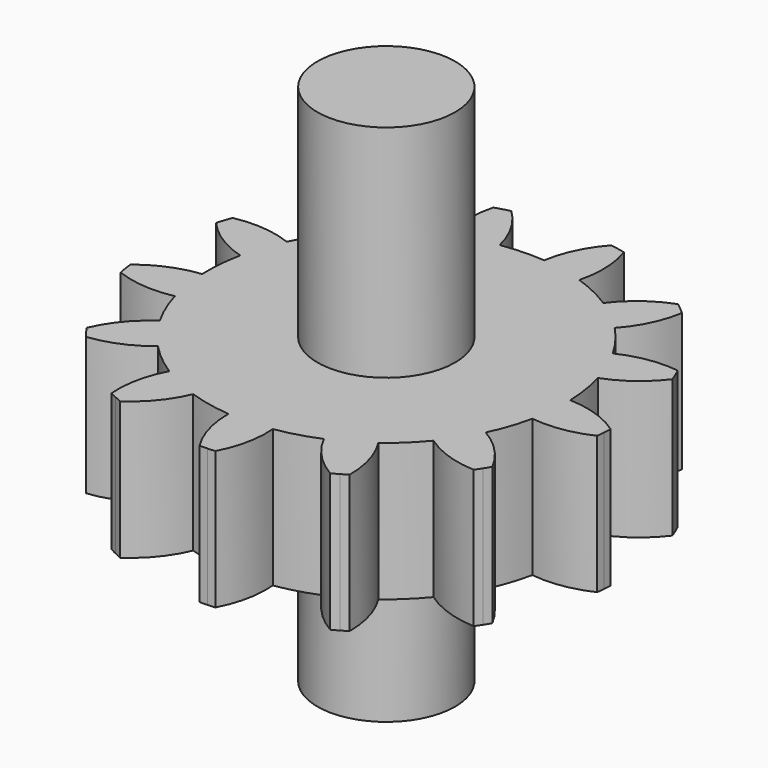
from build123d import *

# Parameters (mm, degrees)
F1_DEPTH      = 2.5
F2_R          = 1.25
F3_DEPTH      = 4
F3_DEPTH_BACK = 5.5


with BuildPart() as f1:
    # F0 (on Top) → F1 (new body)
    with BuildSketch(Plane.XY):
        with BuildLine():
            ThreePointArc((16.398417, 19.565806), (16.410022, 19.496985), (16.422997, 19.428409))
            ThreePointArc((16.422997, 19.428409), (16.944024, 19.308565), (17.477685, 19.340784))
            ThreePointArc((17.477685, 19.340784), (17.39318, 19.723361), (17.355326, 20.113326))
            ThreePointArc((17.355326, 20.113326), (16.837828, 19.979058), (16.379336, 19.704073))
            ThreePointArc((16.379336, 19.704073), (16.388187, 19.634844), (16.398417, 19.565806))
        make_face()
        with BuildLine():
            ThreePointArc((17.355326, 20.113326), (17.39318, 19.723361), (17.477685, 19.340784))
            ThreePointArc((17.477685, 19.340784), (17.608128, 18.969934), (17.782392, 18.617547))
            ThreePointArc((17.782392, 18.617547), (17.997136, 18.289841), (18.249753, 17.990357))
            ThreePointArc((18.249753, 17.990357), (18.537597, 17.722606), (18.855663, 17.491567))
            ThreePointArc((18.855663, 17.491567), (19.198102, 17.301194), (19.560961, 17.153412))
            ThreePointArc((19.560961, 17.153412), (19.940264, 17.050097), (20.329266, 16.993335))
            ThreePointArc((20.329266, 16.993335), (20.720951, 16.983908), (21.110925, 17.021682))
            ThreePointArc((21.110925, 17.021682), (21.494794, 17.106472), (21.865617, 17.23699))
            ThreePointArc((21.865617, 17.23699), (22.216818, 17.410668), (22.544568, 17.625345))
            ThreePointArc((22.544568, 17.625345), (22.845063, 17.878816), (23.112756, 18.166714))
            ThreePointArc((23.112756, 18.166714), (23.343017, 18.483709), (23.533459, 18.826109))
            ThreePointArc((23.533459, 18.826109), (23.681741, 19.190194), (23.784978, 19.569518))
            ThreePointArc((23.784978, 19.569518), (23.836075, 19.898895), (23.853167, 20.231773))
            ThreePointArc((23.853167, 20.231773), (23.85264, 20.290343), (23.851056, 20.348894))
            ThreePointArc((23.851056, 20.348894), (23.813154, 20.740185), (23.728286, 21.124037))
            ThreePointArc((23.728286, 21.124037), (23.598207, 21.493611), (23.424601, 21.844848))
            ThreePointArc((23.424601, 21.844848), (23.209199, 22.173705), (22.955667, 22.474148))
            ThreePointArc((22.955667, 22.474148), (22.668738, 22.74094), (22.351789, 22.971266))
            ThreePointArc((22.351789, 22.971266), (22.008233, 23.162351), (21.644118, 23.310558))
            ThreePointArc((21.644118, 23.310558), (21.266071, 23.413448), (20.87839, 23.470098))
            ThreePointArc((20.87839, 23.470098), (20.485383, 23.479638), (20.094101, 23.441656))
            ThreePointArc((20.094101, 23.441656), (19.711541, 23.357073), (19.34194, 23.22707))
            ThreePointArc((19.34194, 23.22707), (18.989517, 23.052878), (18.660704, 22.837408))
            ThreePointArc((18.660704, 22.837408), (18.361272, 22.584729), (18.094422, 22.297855))
            ThreePointArc((18.094422, 22.297855), (17.863318, 21.979836), (17.672302, 21.636241))
            ThreePointArc((17.672302, 21.636241), (17.524594, 21.273352), (17.421627, 20.895325))
            ThreePointArc((17.421627, 20.895325), (17.364786, 20.506335), (17.355326, 20.113326))
        make_face()
        with BuildLine():
            ThreePointArc((18.249753, 17.990357), (17.997136, 18.289841), (17.782392, 18.617547))
            ThreePointArc((17.782392, 18.617547), (17.386568, 18.258165), (17.108384, 17.801605))
            ThreePointArc((17.108384, 17.801605), (17.148394, 17.74442), (17.189536, 17.688044))
            ThreePointArc((17.189536, 17.688044), (17.231794, 17.632499), (17.275152, 17.577808))
            ThreePointArc((17.275152, 17.577808), (17.792193, 17.713824), (18.249753, 17.990357))
        make_face()
        with BuildLine():
            ThreePointArc((16.528468, 21.463052), (16.934121, 21.114802), (17.421627, 20.895325))
            ThreePointArc((17.421627, 20.895325), (17.524594, 21.273352), (17.672302, 21.636241))
            ThreePointArc((17.672302, 21.636241), (17.151683, 21.757845), (16.617916, 21.72743))
            ThreePointArc((16.617916, 21.72743), (16.593581, 21.662018), (16.570556, 21.596133))
            ThreePointArc((16.570556, 21.596133), (16.548849, 21.529802), (16.528468, 21.463052))
        make_face()
        with BuildLine():
            ThreePointArc((19.560961, 17.153412), (19.198102, 17.301194), (18.855663, 17.491567))
            ThreePointArc((18.855663, 17.491567), (18.672191, 16.989401), (18.638046, 16.45586))
            ThreePointArc((18.638046, 16.45586), (18.700048, 16.423818), (18.762677, 16.393019))
            ThreePointArc((18.762677, 16.393019), (18.825908, 16.363475), (18.889715, 16.335197))
            ThreePointArc((18.889715, 16.335197), (19.284322, 16.695915), (19.560961, 17.153412))
        make_face()
        with BuildLine():
            ThreePointArc((17.567404, 23.215623), (17.764752, 22.718747), (18.094422, 22.297855))
            ThreePointArc((18.094422, 22.297855), (18.361272, 22.584729), (18.660704, 22.837408))
            ThreePointArc((18.660704, 22.837408), (18.256231, 23.187028), (17.769469, 23.40815))
            ThreePointArc((17.769469, 23.40815), (17.717523, 23.361539), (17.666517, 23.313902))
            ThreePointArc((17.666517, 23.313902), (17.616471, 23.265257), (17.567404, 23.215623))
        make_face()
        with BuildLine():
            ThreePointArc((21.110925, 17.021682), (20.720951, 16.983908), (20.329266, 16.993335))
            ThreePointArc((20.329266, 16.993335), (20.400178, 16.463426), (20.617893, 15.97513))
            ThreePointArc((20.617893, 15.97513), (20.687684, 15.975573), (20.757452, 15.977407))
            ThreePointArc((20.757452, 15.977407), (20.82717, 15.980631), (20.896809, 15.985245))
            ThreePointArc((20.896809, 15.985245), (21.078583, 16.488028), (21.110925, 17.021682))
        make_face()
        with BuildLine():
            ThreePointArc((19.301797, 24.284631), (19.24563, 23.752956), (19.34194, 23.22707))
            ThreePointArc((19.34194, 23.22707), (19.711541, 23.357073), (20.094101, 23.441656))
            ThreePointArc((20.094101, 23.441656), (19.898434, 23.939197), (19.570188, 24.361201))
            ThreePointArc((19.570188, 24.361201), (19.502531, 24.344069), (19.435229, 24.325592))
            ThreePointArc((19.435229, 24.325592), (19.368309, 24.305777), (19.301797, 24.284631))
        make_face()
        with BuildLine():
            ThreePointArc((22.544568, 17.625345), (22.216818, 17.410668), (21.865617, 17.23699))
            ThreePointArc((21.865617, 17.23699), (22.174667, 16.800734), (22.594367, 16.469547))
            ThreePointArc((22.594367, 16.469547), (22.655958, 16.502372), (22.716882, 16.536418))
            ThreePointArc((22.716882, 16.536418), (22.777116, 16.571673), (22.836634, 16.608122))
            ThreePointArc((22.836634, 16.608122), (22.763932, 17.137788), (22.544568, 17.625345))
        make_face()
        with BuildLine():
            ThreePointArc((21.334318, 24.425177), (21.037503, 23.980505), (20.87839, 23.470098))
            ThreePointArc((20.87839, 23.470098), (21.266071, 23.413448), (21.644118, 23.310558))
            ThreePointArc((21.644118, 23.310558), (21.702083, 23.84204), (21.607551, 24.368249))
            ThreePointArc((21.607551, 24.368249), (21.539682, 24.384522), (21.471502, 24.399438))
            ThreePointArc((21.471502, 24.399438), (21.403039, 24.412991), (21.334318, 24.425177))
        make_face()
        with BuildLine():
            ThreePointArc((23.533459, 18.826109), (23.343017, 18.483709), (23.112756, 18.166714))
            ThreePointArc((23.112756, 18.166714), (23.589145, 17.924051), (24.11468, 17.825843))
            ThreePointArc((24.11468, 17.825843), (24.153962, 17.883531), (24.192086, 17.941991))
            ThreePointArc((24.192086, 17.941991), (24.229036, 18.0012), (24.264799, 18.061133))
            ThreePointArc((24.264799, 18.061133), (23.954275, 18.496343), (23.533459, 18.826109))
        make_face()
        with BuildLine():
            ThreePointArc((23.199342, 23.605065), (22.729875, 23.349265), (22.351789, 22.971266))
            ThreePointArc((22.351789, 22.971266), (22.668738, 22.74094), (22.955667, 22.474148))
            ThreePointArc((22.955667, 22.474148), (23.253983, 22.917814), (23.414821, 23.42768))
            ThreePointArc((23.414821, 23.42768), (23.362289, 23.473629), (23.30885, 23.518521))
            ThreePointArc((23.30885, 23.518521), (23.254527, 23.562339), (23.199342, 23.605065))
        make_face()
        with BuildLine():
            ThreePointArc((23.853167, 20.231773), (23.836075, 19.898895), (23.784978, 19.569518))
            ThreePointArc((23.784978, 19.569518), (24.319571, 19.57604), (24.830549, 19.733309))
            ThreePointArc((24.830549, 19.733309), (24.838522, 19.802645), (24.845111, 19.872125))
            ThreePointArc((24.845111, 19.872125), (24.850314, 19.941724), (24.854127, 20.011412))
            ThreePointArc((24.854127, 20.011412), (24.376921, 20.252463), (23.851056, 20.348894))
            ThreePointArc((23.851056, 20.348894), (23.85264, 20.290343), (23.853167, 20.231773))
        make_face()
        with BuildLine():
            ThreePointArc((24.469612, 22.012172), (23.935045, 22.003844), (23.424601, 21.844848))
            ThreePointArc((23.424601, 21.844848), (23.598207, 21.493611), (23.728286, 21.124037))
            ThreePointArc((23.728286, 21.124037), (24.198614, 21.378249), (24.577975, 21.754968))
            ThreePointArc((24.577975, 21.754968), (24.552814, 21.820066), (24.526359, 21.884651))
            ThreePointArc((24.526359, 21.884651), (24.498621, 21.948694), (24.469612, 22.012172))
        make_face()
    extrude(amount=F1_DEPTH)

    # F2 (on face) → F3 (join, two sides)
    with BuildSketch(Plane.XY.offset(2.5)) as f3_sk:
        with Locations((20.603167, 20.231773)):
            Circle(F2_R)
    extrude(amount=F3_DEPTH)
    extrude(f3_sk.sketch, amount=-F3_DEPTH_BACK)


solid = f1.part
